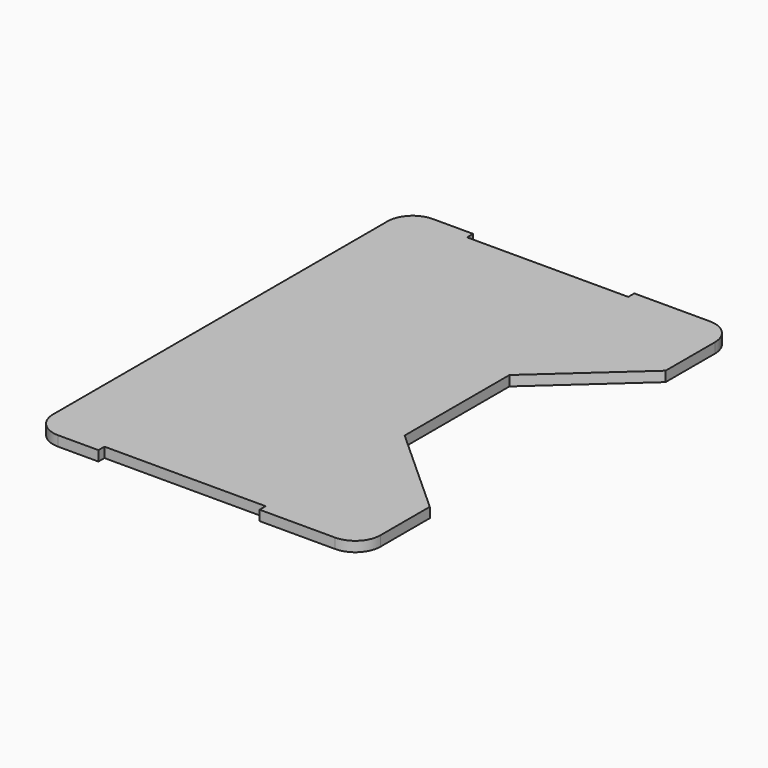
from build123d import *

# Parameters (mm, degrees)
F1_DEPTH = 2
F2_R     = 5


with BuildPart() as f1:
    # F0 (on Top) → F1 (new body)
    with BuildSketch(Plane.XY):
        Polygon((-23.979693, 60.468129), (-36.979693, 60.468129), (-36.979693, -32.531871), (-23.979693, -32.531871), (-23.979693, -31.031871), (8.020307, -31.031871), (8.020307, -32.531871), (28.020307, -32.531871), (28.020307, -15.298191), (10.020307, 0.968129), (10.020307, 13.968129), (10.020307, 26.968129), (28.020307, 43.234449), (28.020307, 60.468129), (8.020307, 60.468129), (8.020307, 58.968129), (-23.979693, 58.968129), align=None)
    extrude(amount=F1_DEPTH)

    # F2
    f2_edges = [f1.edges().sort_by_distance(p)[0] for p in [
        (-36.979693, -32.531871, 1),
        (-36.979693, 60.468129, 1),
        (28.020307, 60.468129, 1),
        (28.020307, -32.531871, 1),
    ]]
    fillet(f2_edges, radius=F2_R)


solid = f1.part
